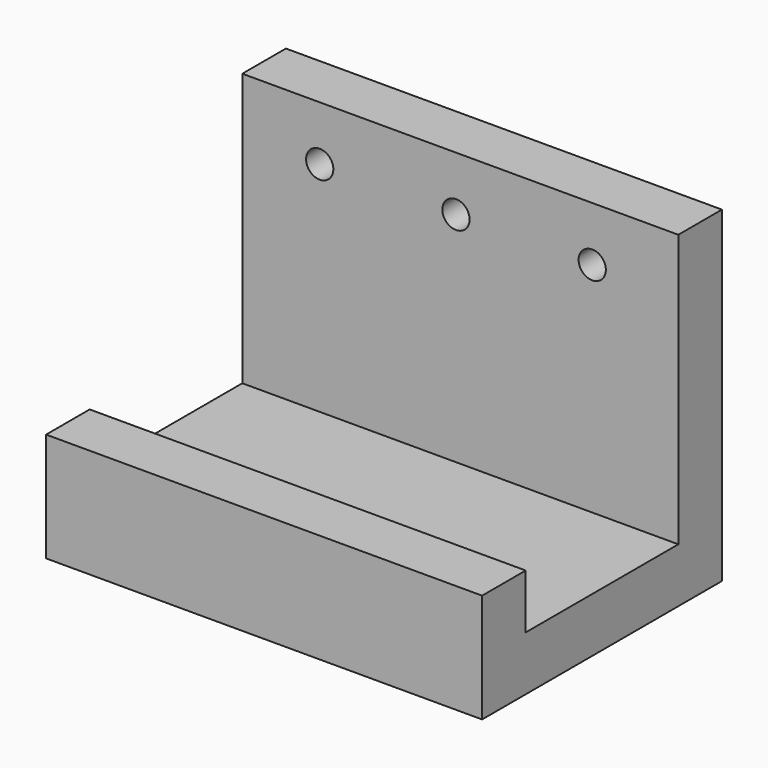
from build123d import *

# Parameters (mm, degrees)
F1_DEPTH = 203.2
F3_D     = 12.7


with BuildPart() as f1:
    # F0 (on Right) → F1 (new body)
    with BuildSketch(Plane.YZ):
        Polygon((-139.7, 0), (0, 0), (0, 152.4), (-25.4, 152.4), (-25.4, 25.4), (-114.3, 25.4), (-114.3, 50.8), (-139.7, 50.8), align=None)
    extrude(amount=-F1_DEPTH)

    # F3 (through all)
    with Locations(Plane.XZ.offset(25.4)):
        with Locations((-167.120757, 127), (-103.620757, 127), (-40.120757, 127)):
            Hole(F3_D / 2)


solid = f1.part
